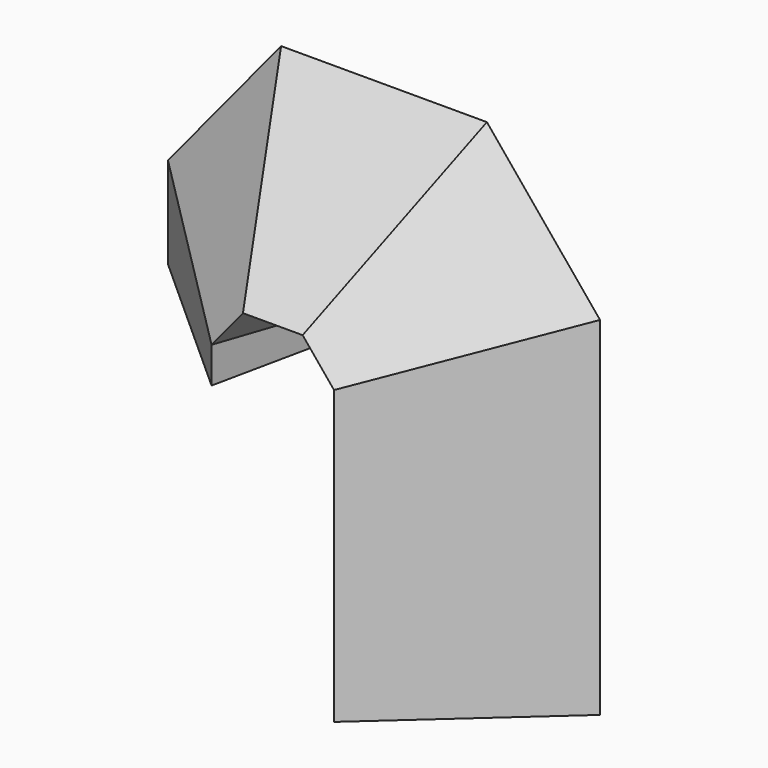
from build123d import *


with BuildPart() as f2:
    # F2: sweep along a path in F0
    with BuildLine(Plane.XZ) as f2_path:
        Line((0, 0), (0, 34.8548106849))
        Line((0, 34.8548106849), (-5.8264764957, 41.9298186898))
        Line((-5.8264764957, 41.9298186898), (-16.6470743716, 41.9298186898))
        Line((-16.6470743716, 41.9298186898), (-22.4735494703, 34.8548106849))
        Line((-22.4735494703, 34.8548106849), (-22.4735494703, 29.2364228517))
    # F1 (on Top) → F2 (sweep)
    with BuildSketch(Plane.XY):
        Polygon((-4.2523382608, -13.0273997208), (13.4082282339, 2.831066901), (-9.155889973, 10.1963328198), align=None)
    sweep(path=f2_path.line, transition=Transition.RIGHT)


solid = f2.part
